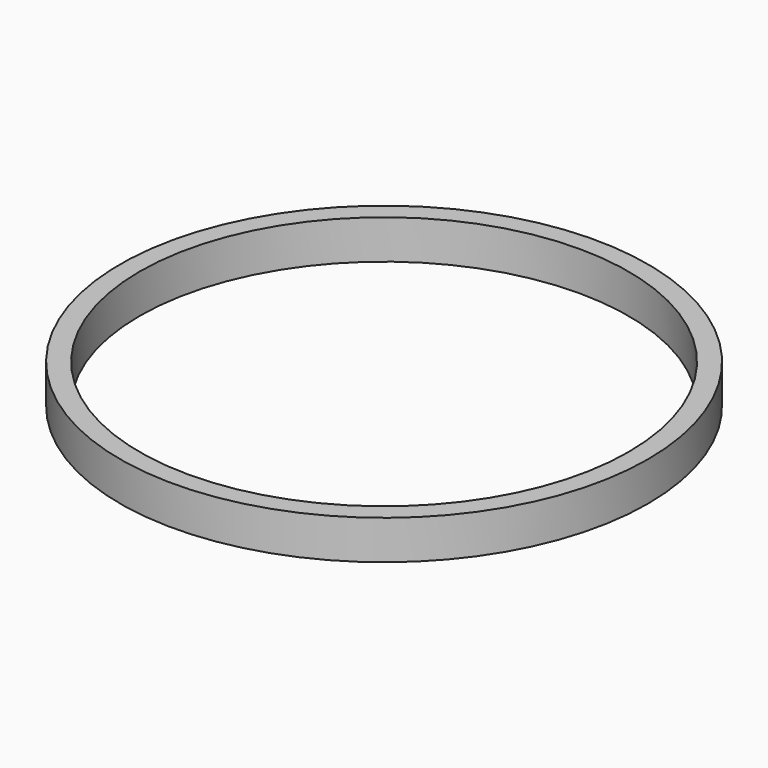
from build123d import *

# Parameters (mm, degrees)
F0_R     = 13.5
F1_DEPTH = 2
F3_R     = 12.5
F4_DEPTH = 25


with BuildPart() as f1:
    # F0 (on Top) → F1 (new body)
    with BuildSketch(Plane.XY):
        Circle(F0_R)
    extrude(amount=F1_DEPTH)

    # F3 (on offset) → F4 (cut)
    with BuildSketch(Plane.XY.offset(2)):
        Circle(F3_R)
    extrude(amount=-F4_DEPTH, mode=Mode.SUBTRACT)


solid = f1.part
